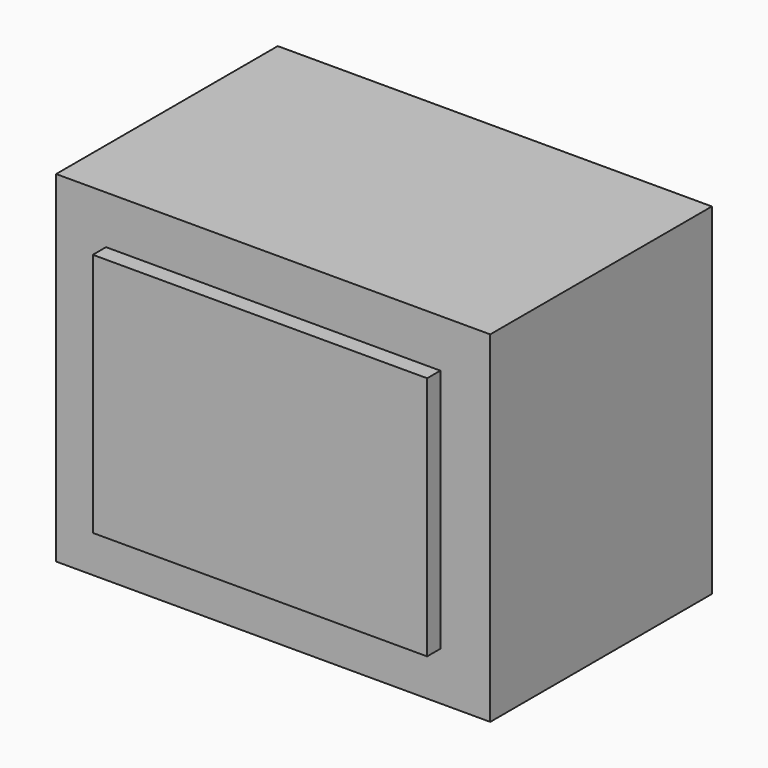
from build123d import *

# Parameters (mm, degrees)
F2_DEPTH = 37.846
F1_W     = 73.8076716661
F1_H     = 49.2051169276
F3_DEPTH = 38.1
F4_T     = 9.0678


with BuildPart() as f2:
    # F0 (on Top) → F2 (new body, symmetric)
    with BuildSketch(Plane.XY):
        Polygon((50.624661522, -33.5625614026), (50.624661522, 33.5625614026), (0, 11.3709298894), (0, -11.5776741877), align=None)
        Polygon((0, 11.3709298894), (-50.624661522, 33.5625614026), (-50.624661522, -33.5625614026), (0, -11.5776741877), align=None)
        Polygon((0, 11.3709298894), (50.624661522, 33.5625614026), (-50.624661522, 33.5625614026), align=None)
        Polygon((-50.624661522, -33.5625614026), (50.624661522, -33.5625614026), (0, -11.5776741877), align=None)
    extrude(amount=F2_DEPTH, both=True)

    # F1 (on Front) → F3 (join)
    with BuildSketch(Plane.XZ):
        Rectangle(F1_W, F1_H)
    extrude(amount=F3_DEPTH)

    # F4
    f4_openings = [f2.faces().sort_by_distance(p)[0] for p in [
        (0, 33.562561, 0),
    ]]
    offset(amount=F4_T, openings=f4_openings, kind=Kind.INTERSECTION)


solid = f2.part
